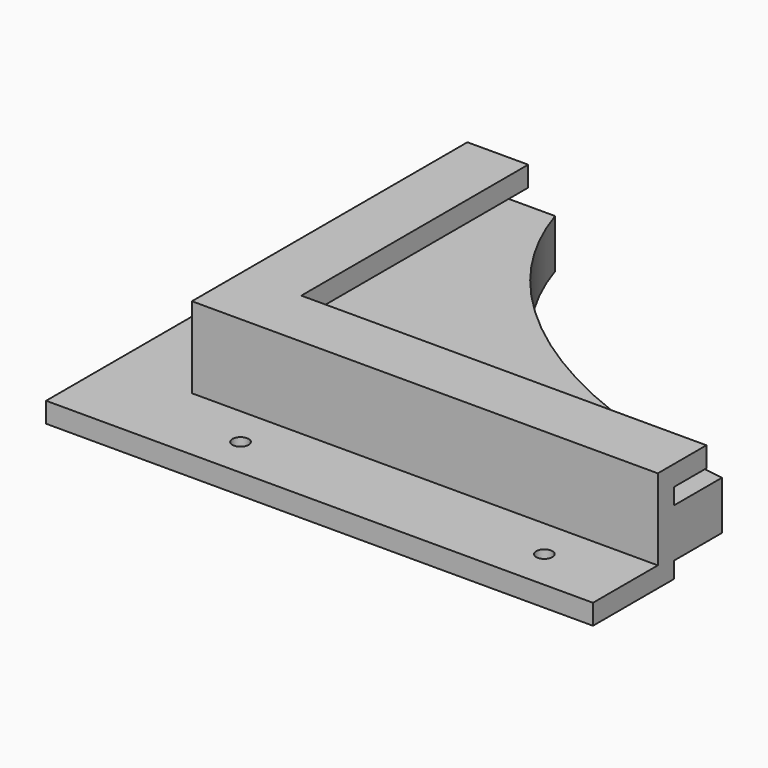
from build123d import *

# Parameters (mm, degrees)
F1_DEPTH  = 12
F2_W      = 130
F2_H      = 20
F3_DEPTH  = 5
F4_W      = 105
F4_H      = 20
F5_DEPTH  = 5
F6_R      = 2
F7_DEPTH  = 5
F9_DEPTH  = 5
F10_W     = 135
F10_H     = 20
F10_W_2   = 20
F10_H_2   = 105
F11_DEPTH = 25


with BuildPart() as f1:
    # F0 (on Top) → F1 (new body)
    with BuildSketch(Plane.XY):
        with BuildLine():
            add(Edge.make_bspline(
                [(-116.5, 0), (-116.5, -86.5), (0, -86.5)],
                knots=[3.1415926536, 3.1415926536, 3.1415926536, 4.7123889804, 4.7123889804, 4.7123889804], degree=2, weights=[1, 0.7071067812, 1]))
            Line((-116.5, 0), (-116.5, -86.5))
            Line((-116.5, -86.5), (0, -86.5))
        make_face()
        Polygon((-116.5, -86.5), (-116.5, 0), (-130, 0), (-130, -100), (0, -100), (0, -86.5), align=None)
    extrude(amount=F1_DEPTH)

    # F2 (on face) → F3 (join)
    with BuildSketch(Plane.XZ.offset(100)):
        with Locations((-65, 6)):
            Rectangle(F2_W, F2_H)
    extrude(amount=F3_DEPTH)

    # F4 (on face) → F5 (join)
    with BuildSketch(Plane(origin=(-130, 0, 0), x_dir=(0, -1, 0), z_dir=(-1, 0, 0))):
        with Locations((52.5, 6)):
            Rectangle(F4_W, F4_H)
    extrude(amount=F5_DEPTH)

    # F6 (on face) → F7 (join)
    with BuildSketch(Plane(origin=(0, 0, -4), x_dir=(1, 0, 0), z_dir=(0, 0, -1))):
        Polygon((0, 105), (0, 125), (-155, 125), (-155, 0), (-135, 0), (-135, 105), align=None)
        with Locations((-145, 40)):
            Circle(F6_R, mode=Mode.SUBTRACT)
        with Locations((-145, 85)):
            Circle(F6_R, mode=Mode.SUBTRACT)
        with Locations((-115, 115)):
            Circle(F6_R, mode=Mode.SUBTRACT)
        with Locations((-40, 115)):
            Circle(F6_R, mode=Mode.SUBTRACT)
    extrude(amount=-F7_DEPTH)

    # F8 (on face) → F9 (join)
    with BuildSketch(Plane.XY.offset(16)):
        Polygon((-120, 0), (-135, 0), (-135, -105), (0, -105), (0, -90), (-120, -90), align=None)
    extrude(amount=F9_DEPTH)

    # F10 (on Top) → F11 (cut, symmetric)
    with BuildSketch(Plane.XY):
        with Locations((-87.5, -10)):
            Rectangle(F10_W, F10_H)
        with Locations((-10, -10)):
            Rectangle(F10_W_2, F10_H)
        with Locations((-10, -72.5)):
            Rectangle(F10_W_2, F10_H_2)
    extrude(amount=F11_DEPTH, both=True, mode=Mode.SUBTRACT)


solid = f1.part
